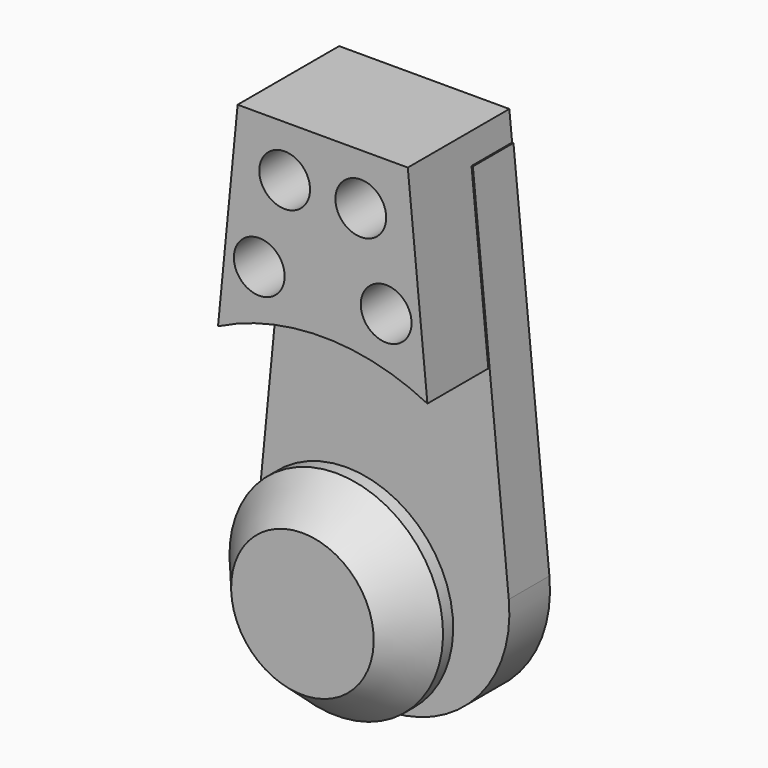
from build123d import *

# Parameters (mm, degrees)
SKETCH011_R  = 1.5
PAD004_DEPTH = 10
PAD005_DEPTH = 7.5
PAD003_DEPTH = 3


with BuildPart() as armmountcutout:
    # Sketch011 → Pad004 (new body, symmetric)
    with BuildSketch(Plane.XZ):
        with Locations((-2.25, 21.222956)):
            Circle(SKETCH011_R)
        with Locations((-3.75, 16.222956)):
            Circle(SKETCH011_R)
        with Locations((2.25, 21.222956)):
            Circle(SKETCH011_R)
        with Locations((3.75, 16.222956)):
            Circle(SKETCH011_R)
    extrude(amount=PAD004_DEPTH, both=True)


with BuildPart() as armmountpad:
    # Sketch012 → Pad005 (new body)
    with BuildSketch(Plane.XZ.offset(-9)):
        with BuildLine():
            ThreePointArc((6.186762, 12.341251), (0, 13.805162), (-6.186762, 12.341251))
            Line((-6.186762, 12.341251), (-5.02905, 24.245485))
            Line((-5.02905, 24.245485), (5.02905, 24.245485))
            Line((5.02905, 24.245485), (6.186762, 12.341251))
        make_face()
    extrude(amount=PAD005_DEPTH)


with BuildPart() as armmountbase:
    # Sketch010 → Pad003 (new body)
    with BuildSketch(Plane.XZ.offset(-6)):
        with BuildLine():
            ThreePointArc((-7.396368, 0.719373), (0, -7.431269), (7.396368, 0.719373))
            Line((5.272787, 22.55337), (7.396368, 0.719373))
            Line((-5.272787, 22.55337), (5.272787, 22.55337))
            Line((-7.396368, 0.719373), (-5.272787, 22.55337))
        make_face()
    extrude(amount=-PAD003_DEPTH)


with BuildPart() as cut001:
    # Sketch008 → Revolution002 (revolve)
    with BuildSketch(Plane.YZ):
        Polygon((0, 4.213446), (2.5, 6.311195), (3.25, 6.311195), (3.25, 0), (0, 0), align=None)
    revolve(axis=Axis((0, 0, 0), (0, 1, 0)))

    # Fusion: union ArmMountPad, ArmMountBase
    add(armmountpad.part)
    add(armmountbase.part)

    # Cut001: cut ArmMountCutout
    add(armmountcutout.part, mode=Mode.SUBTRACT)


solid = cut001.part
